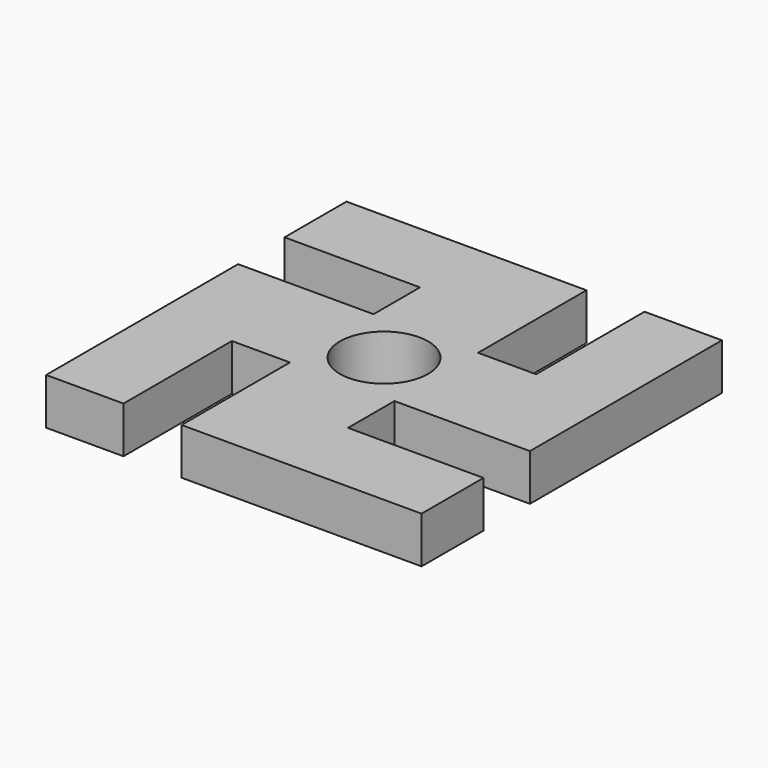
from build123d import *

# Parameters (mm, degrees)
F0_W     = 35
F0_H     = 20
F0_W_2   = 20
F0_H_2   = 35
F0_W_3   = 27
F0_H_3   = 27
F0_R     = 11.4
F1_DEPTH = 12


with BuildPart() as f1:
    # F0 (on Top) → F1 (new body)
    with BuildSketch(Plane.XY):
        with Locations((-31, 38.5)):
            Rectangle(F0_W, F0_H)
        Polygon((-13.5, 13.5), (13.5, 13.5), (13.5, 48.5), (-13.5, 48.5), (-13.5, 28.5), align=None)
        with Locations((38.5, 31)):
            Rectangle(F0_W_2, F0_H_2)
        Polygon((28.5, 13.5), (13.5, 13.5), (13.5, -13.5), (48.5, -13.5), (48.5, 13.5), align=None)
        Polygon((-13.5, -13.5), (-13.5, 13.5), (-48.5, 13.5), (-48.5, -13.5), (-28.5, -13.5), align=None)
        Rectangle(F0_W_3, F0_H_3)
        Circle(F0_R, mode=Mode.SUBTRACT)
        Polygon((13.5, -28.5), (13.5, -13.5), (-13.5, -13.5), (-13.5, -48.5), (13.5, -48.5), align=None)
        with Locations((-38.5, -31)):
            Rectangle(F0_W_2, F0_H_2)
        with Locations((31, -38.5)):
            Rectangle(F0_W, F0_H)
    extrude(amount=F1_DEPTH)


solid = f1.part
